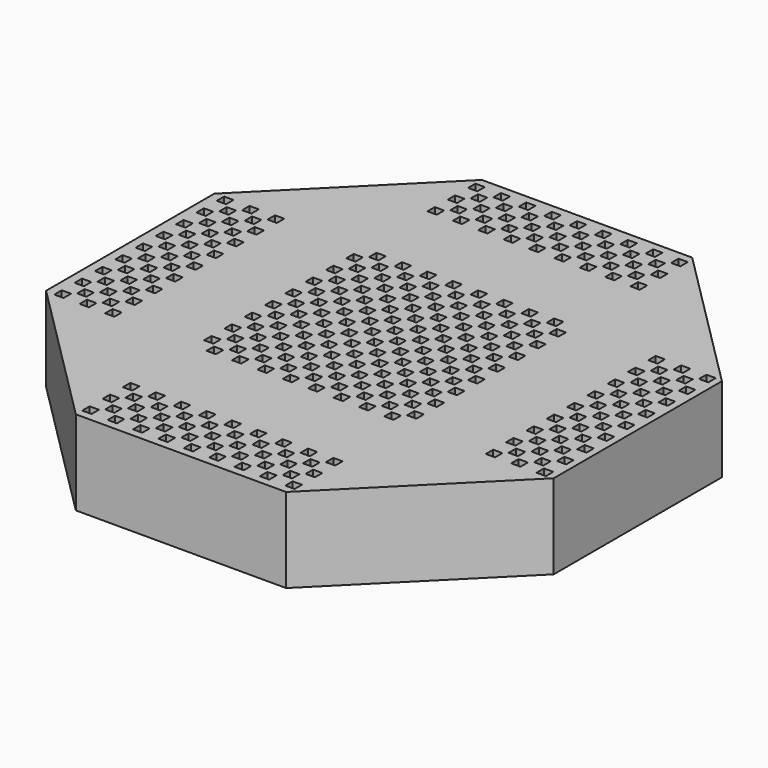
from build123d import *

# Parameters (mm, degrees)
F0_W     = 2.77368
F0_H     = 2.77368
F1_DEPTH = 25.4


with BuildPart() as f1:
    # F0 (on Top) → F1 (new body)
    with BuildSketch(Plane.XY):
        Polygon((31.563073, 76.2), (-31.563073, 76.2), (-76.2, 31.563073), (-76.2, -31.563073), (-31.563073, -76.2), (31.563073, -76.2), (76.2, -31.563073), (76.2, 31.563073), align=None)
        with Locations((-30.176233, -72.389999)):
            Rectangle(F0_W, F0_H, mode=Mode.SUBTRACT)
        with Locations((-22.556233, -72.389999)):
            Rectangle(F0_W, F0_H, mode=Mode.SUBTRACT)
        with Locations((-26.366233, -68.579999)):
            Rectangle(F0_W, F0_H, mode=Mode.SUBTRACT)
        with Locations((-30.176233, -64.769999)):
            Rectangle(F0_W, F0_H, mode=Mode.SUBTRACT)
        with Locations((-22.556233, -64.769999)):
            Rectangle(F0_W, F0_H, mode=Mode.SUBTRACT)
        with Locations((-26.366233, -60.959999)):
            Rectangle(F0_W, F0_H, mode=Mode.SUBTRACT)
        with Locations((-14.936233, -72.389999)):
            Rectangle(F0_W, F0_H, mode=Mode.SUBTRACT)
        with Locations((-18.746233, -68.579999)):
            Rectangle(F0_W, F0_H, mode=Mode.SUBTRACT)
        with Locations((-11.126233, -68.579999)):
            Rectangle(F0_W, F0_H, mode=Mode.SUBTRACT)
        with Locations((-7.316233, -72.389999)):
            Rectangle(F0_W, F0_H, mode=Mode.SUBTRACT)
        with Locations((-3.506233, -68.579999)):
            Rectangle(F0_W, F0_H, mode=Mode.SUBTRACT)
        with Locations((-14.936233, -64.769999)):
            Rectangle(F0_W, F0_H, mode=Mode.SUBTRACT)
        with Locations((-18.746233, -60.959999)):
            Rectangle(F0_W, F0_H, mode=Mode.SUBTRACT)
        with Locations((-11.126233, -60.959999)):
            Rectangle(F0_W, F0_H, mode=Mode.SUBTRACT)
        with Locations((-7.316233, -64.769999)):
            Rectangle(F0_W, F0_H, mode=Mode.SUBTRACT)
        with Locations((-3.506233, -60.959999)):
            Rectangle(F0_W, F0_H, mode=Mode.SUBTRACT)
        with Locations((-30.176233, -57.149999)):
            Rectangle(F0_W, F0_H, mode=Mode.SUBTRACT)
        with Locations((-22.556233, -57.149999)):
            Rectangle(F0_W, F0_H, mode=Mode.SUBTRACT)
        with Locations((-14.936233, -57.149999)):
            Rectangle(F0_W, F0_H, mode=Mode.SUBTRACT)
        with Locations((-7.316233, -57.149999)):
            Rectangle(F0_W, F0_H, mode=Mode.SUBTRACT)
        with Locations((-72.086233, -30.479999)):
            Rectangle(F0_W, F0_H, mode=Mode.SUBTRACT)
        with Locations((-64.466233, -30.479999)):
            Rectangle(F0_W, F0_H, mode=Mode.SUBTRACT)
        with Locations((-68.276233, -26.669999)):
            Rectangle(F0_W, F0_H, mode=Mode.SUBTRACT)
        with Locations((-72.086233, -22.859999)):
            Rectangle(F0_W, F0_H, mode=Mode.SUBTRACT)
        with Locations((-60.656233, -26.669999)):
            Rectangle(F0_W, F0_H, mode=Mode.SUBTRACT)
        with Locations((-64.466233, -22.859999)):
            Rectangle(F0_W, F0_H, mode=Mode.SUBTRACT)
        with Locations((-56.846233, -30.479999)):
            Rectangle(F0_W, F0_H, mode=Mode.SUBTRACT)
        with Locations((-56.846233, -22.859999)):
            Rectangle(F0_W, F0_H, mode=Mode.SUBTRACT)
        with Locations((-72.086233, -15.239999)):
            Rectangle(F0_W, F0_H, mode=Mode.SUBTRACT)
        with Locations((-68.276233, -19.049999)):
            Rectangle(F0_W, F0_H, mode=Mode.SUBTRACT)
        with Locations((-68.276233, -11.429999)):
            Rectangle(F0_W, F0_H, mode=Mode.SUBTRACT)
        with Locations((-64.466233, -15.239999)):
            Rectangle(F0_W, F0_H, mode=Mode.SUBTRACT)
        with Locations((-60.656233, -19.049999)):
            Rectangle(F0_W, F0_H, mode=Mode.SUBTRACT)
        with Locations((-60.656233, -11.429999)):
            Rectangle(F0_W, F0_H, mode=Mode.SUBTRACT)
        with Locations((-72.086233, -7.619999)):
            Rectangle(F0_W, F0_H, mode=Mode.SUBTRACT)
        with Locations((-68.276233, -3.809999)):
            Rectangle(F0_W, F0_H, mode=Mode.SUBTRACT)
        with Locations((-64.466233, -7.619999)):
            Rectangle(F0_W, F0_H, mode=Mode.SUBTRACT)
        with Locations((-60.656233, -3.809999)):
            Rectangle(F0_W, F0_H, mode=Mode.SUBTRACT)
        with Locations((-56.846233, -15.239999)):
            Rectangle(F0_W, F0_H, mode=Mode.SUBTRACT)
        with Locations((-56.846233, -7.619999)):
            Rectangle(F0_W, F0_H, mode=Mode.SUBTRACT)
        with Locations((-26.366233, -30.479999)):
            Rectangle(F0_W, F0_H, mode=Mode.SUBTRACT)
        with Locations((-30.176233, -26.669999)):
            Rectangle(F0_W, F0_H, mode=Mode.SUBTRACT)
        with Locations((-22.556233, -26.669999)):
            Rectangle(F0_W, F0_H, mode=Mode.SUBTRACT)
        with Locations((-26.366233, -22.859999)):
            Rectangle(F0_W, F0_H, mode=Mode.SUBTRACT)
        with Locations((-18.746233, -30.479999)):
            Rectangle(F0_W, F0_H, mode=Mode.SUBTRACT)
        with Locations((-11.126233, -30.479999)):
            Rectangle(F0_W, F0_H, mode=Mode.SUBTRACT)
        with Locations((-3.506233, -30.479999)):
            Rectangle(F0_W, F0_H, mode=Mode.SUBTRACT)
        with Locations((-14.936233, -26.669999)):
            Rectangle(F0_W, F0_H, mode=Mode.SUBTRACT)
        with Locations((-18.746233, -22.859999)):
            Rectangle(F0_W, F0_H, mode=Mode.SUBTRACT)
        with Locations((-11.126233, -22.859999)):
            Rectangle(F0_W, F0_H, mode=Mode.SUBTRACT)
        with Locations((-7.316233, -26.669999)):
            Rectangle(F0_W, F0_H, mode=Mode.SUBTRACT)
        with Locations((-3.506233, -22.859999)):
            Rectangle(F0_W, F0_H, mode=Mode.SUBTRACT)
        with Locations((-30.176233, -19.049999)):
            Rectangle(F0_W, F0_H, mode=Mode.SUBTRACT)
        with Locations((-30.176233, -11.429999)):
            Rectangle(F0_W, F0_H, mode=Mode.SUBTRACT)
        with Locations((-26.366233, -15.239999)):
            Rectangle(F0_W, F0_H, mode=Mode.SUBTRACT)
        with Locations((-22.556233, -19.049999)):
            Rectangle(F0_W, F0_H, mode=Mode.SUBTRACT)
        with Locations((-22.556233, -11.429999)):
            Rectangle(F0_W, F0_H, mode=Mode.SUBTRACT)
        with Locations((-30.176233, -3.809999)):
            Rectangle(F0_W, F0_H, mode=Mode.SUBTRACT)
        with Locations((-26.366233, -7.619999)):
            Rectangle(F0_W, F0_H, mode=Mode.SUBTRACT)
        with Locations((-22.556233, -3.809999)):
            Rectangle(F0_W, F0_H, mode=Mode.SUBTRACT)
        with Locations((-14.936233, -19.049999)):
            Rectangle(F0_W, F0_H, mode=Mode.SUBTRACT)
        with Locations((-18.746233, -15.239999)):
            Rectangle(F0_W, F0_H, mode=Mode.SUBTRACT)
        with Locations((-11.126233, -15.239999)):
            Rectangle(F0_W, F0_H, mode=Mode.SUBTRACT)
        with Locations((-14.936233, -11.429999)):
            Rectangle(F0_W, F0_H, mode=Mode.SUBTRACT)
        with Locations((-7.316233, -19.049999)):
            Rectangle(F0_W, F0_H, mode=Mode.SUBTRACT)
        with Locations((-3.506233, -15.239999)):
            Rectangle(F0_W, F0_H, mode=Mode.SUBTRACT)
        with Locations((-7.316233, -11.429999)):
            Rectangle(F0_W, F0_H, mode=Mode.SUBTRACT)
        with Locations((-18.746233, -7.619999)):
            Rectangle(F0_W, F0_H, mode=Mode.SUBTRACT)
        with Locations((-11.126233, -7.619999)):
            Rectangle(F0_W, F0_H, mode=Mode.SUBTRACT)
        with Locations((-14.936233, -3.809999)):
            Rectangle(F0_W, F0_H, mode=Mode.SUBTRACT)
        with Locations((-3.506233, -7.619999)):
            Rectangle(F0_W, F0_H, mode=Mode.SUBTRACT)
        with Locations((-7.316233, -3.809999)):
            Rectangle(F0_W, F0_H, mode=Mode.SUBTRACT)
        with Locations((0.303767, -72.389999)):
            Rectangle(F0_W, F0_H, mode=Mode.SUBTRACT)
        with Locations((7.923767, -72.389999)):
            Rectangle(F0_W, F0_H, mode=Mode.SUBTRACT)
        with Locations((4.113767, -68.579999)):
            Rectangle(F0_W, F0_H, mode=Mode.SUBTRACT)
        with Locations((15.543767, -72.389999)):
            Rectangle(F0_W, F0_H, mode=Mode.SUBTRACT)
        with Locations((11.733767, -68.579999)):
            Rectangle(F0_W, F0_H, mode=Mode.SUBTRACT)
        with Locations((0.303767, -64.769999)):
            Rectangle(F0_W, F0_H, mode=Mode.SUBTRACT)
        with Locations((7.923767, -64.769999)):
            Rectangle(F0_W, F0_H, mode=Mode.SUBTRACT)
        with Locations((4.113767, -60.959999)):
            Rectangle(F0_W, F0_H, mode=Mode.SUBTRACT)
        with Locations((15.543767, -64.769999)):
            Rectangle(F0_W, F0_H, mode=Mode.SUBTRACT)
        with Locations((11.733767, -60.959999)):
            Rectangle(F0_W, F0_H, mode=Mode.SUBTRACT)
        with Locations((23.163767, -72.389999)):
            Rectangle(F0_W, F0_H, mode=Mode.SUBTRACT)
        with Locations((19.353767, -68.579999)):
            Rectangle(F0_W, F0_H, mode=Mode.SUBTRACT)
        with Locations((26.973767, -68.579999)):
            Rectangle(F0_W, F0_H, mode=Mode.SUBTRACT)
        with Locations((30.783767, -72.389999)):
            Rectangle(F0_W, F0_H, mode=Mode.SUBTRACT)
        with Locations((23.163767, -64.769999)):
            Rectangle(F0_W, F0_H, mode=Mode.SUBTRACT)
        with Locations((19.353767, -60.959999)):
            Rectangle(F0_W, F0_H, mode=Mode.SUBTRACT)
        with Locations((26.973767, -60.959999)):
            Rectangle(F0_W, F0_H, mode=Mode.SUBTRACT)
        with Locations((30.783767, -64.769999)):
            Rectangle(F0_W, F0_H, mode=Mode.SUBTRACT)
        with Locations((0.303767, -57.149999)):
            Rectangle(F0_W, F0_H, mode=Mode.SUBTRACT)
        with Locations((7.923767, -57.149999)):
            Rectangle(F0_W, F0_H, mode=Mode.SUBTRACT)
        with Locations((15.543767, -57.149999)):
            Rectangle(F0_W, F0_H, mode=Mode.SUBTRACT)
        with Locations((23.163767, -57.149999)):
            Rectangle(F0_W, F0_H, mode=Mode.SUBTRACT)
        with Locations((30.783767, -57.149999)):
            Rectangle(F0_W, F0_H, mode=Mode.SUBTRACT)
        with Locations((4.113767, -30.479999)):
            Rectangle(F0_W, F0_H, mode=Mode.SUBTRACT)
        with Locations((11.733767, -30.479999)):
            Rectangle(F0_W, F0_H, mode=Mode.SUBTRACT)
        with Locations((0.303767, -26.669999)):
            Rectangle(F0_W, F0_H, mode=Mode.SUBTRACT)
        with Locations((7.923767, -26.669999)):
            Rectangle(F0_W, F0_H, mode=Mode.SUBTRACT)
        with Locations((4.113767, -22.859999)):
            Rectangle(F0_W, F0_H, mode=Mode.SUBTRACT)
        with Locations((15.543767, -26.669999)):
            Rectangle(F0_W, F0_H, mode=Mode.SUBTRACT)
        with Locations((11.733767, -22.859999)):
            Rectangle(F0_W, F0_H, mode=Mode.SUBTRACT)
        with Locations((19.353767, -30.479999)):
            Rectangle(F0_W, F0_H, mode=Mode.SUBTRACT)
        with Locations((26.973767, -30.479999)):
            Rectangle(F0_W, F0_H, mode=Mode.SUBTRACT)
        with Locations((23.163767, -26.669999)):
            Rectangle(F0_W, F0_H, mode=Mode.SUBTRACT)
        with Locations((19.353767, -22.859999)):
            Rectangle(F0_W, F0_H, mode=Mode.SUBTRACT)
        with Locations((26.973767, -22.859999)):
            Rectangle(F0_W, F0_H, mode=Mode.SUBTRACT)
        with Locations((30.783767, -26.669999)):
            Rectangle(F0_W, F0_H, mode=Mode.SUBTRACT)
        with Locations((0.303767, -19.049999)):
            Rectangle(F0_W, F0_H, mode=Mode.SUBTRACT)
        with Locations((4.113767, -15.239999)):
            Rectangle(F0_W, F0_H, mode=Mode.SUBTRACT)
        with Locations((7.923767, -19.049999)):
            Rectangle(F0_W, F0_H, mode=Mode.SUBTRACT)
        with Locations((0.303767, -11.429999)):
            Rectangle(F0_W, F0_H, mode=Mode.SUBTRACT)
        with Locations((7.923767, -11.429999)):
            Rectangle(F0_W, F0_H, mode=Mode.SUBTRACT)
        with Locations((11.733767, -15.239999)):
            Rectangle(F0_W, F0_H, mode=Mode.SUBTRACT)
        with Locations((15.543767, -19.049999)):
            Rectangle(F0_W, F0_H, mode=Mode.SUBTRACT)
        with Locations((15.543767, -11.429999)):
            Rectangle(F0_W, F0_H, mode=Mode.SUBTRACT)
        with Locations((4.113767, -7.619999)):
            Rectangle(F0_W, F0_H, mode=Mode.SUBTRACT)
        with Locations((0.303767, -3.809999)):
            Rectangle(F0_W, F0_H, mode=Mode.SUBTRACT)
        with Locations((7.923767, -3.809999)):
            Rectangle(F0_W, F0_H, mode=Mode.SUBTRACT)
        with Locations((11.733767, -7.619999)):
            Rectangle(F0_W, F0_H, mode=Mode.SUBTRACT)
        with Locations((15.543767, -3.809999)):
            Rectangle(F0_W, F0_H, mode=Mode.SUBTRACT)
        with Locations((23.163767, -19.049999)):
            Rectangle(F0_W, F0_H, mode=Mode.SUBTRACT)
        with Locations((19.353767, -15.239999)):
            Rectangle(F0_W, F0_H, mode=Mode.SUBTRACT)
        with Locations((26.973767, -15.239999)):
            Rectangle(F0_W, F0_H, mode=Mode.SUBTRACT)
        with Locations((23.163767, -11.429999)):
            Rectangle(F0_W, F0_H, mode=Mode.SUBTRACT)
        with Locations((30.783767, -19.049999)):
            Rectangle(F0_W, F0_H, mode=Mode.SUBTRACT)
        with Locations((30.783767, -11.429999)):
            Rectangle(F0_W, F0_H, mode=Mode.SUBTRACT)
        with Locations((19.353767, -7.619999)):
            Rectangle(F0_W, F0_H, mode=Mode.SUBTRACT)
        with Locations((26.973767, -7.619999)):
            Rectangle(F0_W, F0_H, mode=Mode.SUBTRACT)
        with Locations((23.163767, -3.809999)):
            Rectangle(F0_W, F0_H, mode=Mode.SUBTRACT)
        with Locations((30.783767, -3.809999)):
            Rectangle(F0_W, F0_H, mode=Mode.SUBTRACT)
        with Locations((57.453767, -30.479999)):
            Rectangle(F0_W, F0_H, mode=Mode.SUBTRACT)
        with Locations((65.073767, -30.479999)):
            Rectangle(F0_W, F0_H, mode=Mode.SUBTRACT)
        with Locations((72.693767, -30.479999)):
            Rectangle(F0_W, F0_H, mode=Mode.SUBTRACT)
        with Locations((61.263767, -26.669999)):
            Rectangle(F0_W, F0_H, mode=Mode.SUBTRACT)
        with Locations((57.453767, -22.859999)):
            Rectangle(F0_W, F0_H, mode=Mode.SUBTRACT)
        with Locations((65.073767, -22.859999)):
            Rectangle(F0_W, F0_H, mode=Mode.SUBTRACT)
        with Locations((68.883767, -26.669999)):
            Rectangle(F0_W, F0_H, mode=Mode.SUBTRACT)
        with Locations((72.693767, -22.859999)):
            Rectangle(F0_W, F0_H, mode=Mode.SUBTRACT)
        with Locations((61.263767, -19.049999)):
            Rectangle(F0_W, F0_H, mode=Mode.SUBTRACT)
        with Locations((57.453767, -15.239999)):
            Rectangle(F0_W, F0_H, mode=Mode.SUBTRACT)
        with Locations((65.073767, -15.239999)):
            Rectangle(F0_W, F0_H, mode=Mode.SUBTRACT)
        with Locations((61.263767, -11.429999)):
            Rectangle(F0_W, F0_H, mode=Mode.SUBTRACT)
        with Locations((68.883767, -19.049999)):
            Rectangle(F0_W, F0_H, mode=Mode.SUBTRACT)
        with Locations((72.693767, -15.239999)):
            Rectangle(F0_W, F0_H, mode=Mode.SUBTRACT)
        with Locations((68.883767, -11.429999)):
            Rectangle(F0_W, F0_H, mode=Mode.SUBTRACT)
        with Locations((57.453767, -7.619999)):
            Rectangle(F0_W, F0_H, mode=Mode.SUBTRACT)
        with Locations((65.073767, -7.619999)):
            Rectangle(F0_W, F0_H, mode=Mode.SUBTRACT)
        with Locations((61.263767, -3.809999)):
            Rectangle(F0_W, F0_H, mode=Mode.SUBTRACT)
        with Locations((72.693767, -7.619999)):
            Rectangle(F0_W, F0_H, mode=Mode.SUBTRACT)
        with Locations((68.883767, -3.809999)):
            Rectangle(F0_W, F0_H, mode=Mode.SUBTRACT)
        with Locations((-72.086233, 1e-06)):
            Rectangle(F0_W, F0_H, mode=Mode.SUBTRACT)
        with Locations((-68.276233, 3.810001)):
            Rectangle(F0_W, F0_H, mode=Mode.SUBTRACT)
        with Locations((-72.086233, 7.620001)):
            Rectangle(F0_W, F0_H, mode=Mode.SUBTRACT)
        with Locations((-64.466233, 1e-06)):
            Rectangle(F0_W, F0_H, mode=Mode.SUBTRACT)
        with Locations((-60.656233, 3.810001)):
            Rectangle(F0_W, F0_H, mode=Mode.SUBTRACT)
        with Locations((-64.466233, 7.620001)):
            Rectangle(F0_W, F0_H, mode=Mode.SUBTRACT)
        with Locations((-68.276233, 11.430001)):
            Rectangle(F0_W, F0_H, mode=Mode.SUBTRACT)
        with Locations((-72.086233, 15.240001)):
            Rectangle(F0_W, F0_H, mode=Mode.SUBTRACT)
        with Locations((-60.656233, 11.430001)):
            Rectangle(F0_W, F0_H, mode=Mode.SUBTRACT)
        with Locations((-64.466233, 15.240001)):
            Rectangle(F0_W, F0_H, mode=Mode.SUBTRACT)
        with Locations((-56.846233, 1e-06)):
            Rectangle(F0_W, F0_H, mode=Mode.SUBTRACT)
        with Locations((-56.846233, 7.620001)):
            Rectangle(F0_W, F0_H, mode=Mode.SUBTRACT)
        with Locations((-56.846233, 15.240001)):
            Rectangle(F0_W, F0_H, mode=Mode.SUBTRACT)
        with Locations((-72.086233, 22.860001)):
            Rectangle(F0_W, F0_H, mode=Mode.SUBTRACT)
        with Locations((-68.276233, 19.050001)):
            Rectangle(F0_W, F0_H, mode=Mode.SUBTRACT)
        with Locations((-68.276233, 26.670001)):
            Rectangle(F0_W, F0_H, mode=Mode.SUBTRACT)
        with Locations((-64.466233, 22.860001)):
            Rectangle(F0_W, F0_H, mode=Mode.SUBTRACT)
        with Locations((-60.656233, 19.050001)):
            Rectangle(F0_W, F0_H, mode=Mode.SUBTRACT)
        with Locations((-60.656233, 26.670001)):
            Rectangle(F0_W, F0_H, mode=Mode.SUBTRACT)
        with Locations((-72.086233, 30.480001)):
            Rectangle(F0_W, F0_H, mode=Mode.SUBTRACT)
        with Locations((-64.466233, 30.480001)):
            Rectangle(F0_W, F0_H, mode=Mode.SUBTRACT)
        with Locations((-56.846233, 22.860001)):
            Rectangle(F0_W, F0_H, mode=Mode.SUBTRACT)
        with Locations((-56.846233, 30.480001)):
            Rectangle(F0_W, F0_H, mode=Mode.SUBTRACT)
        with Locations((-30.176233, 3.810001)):
            Rectangle(F0_W, F0_H, mode=Mode.SUBTRACT)
        with Locations((-26.366233, 1e-06)):
            Rectangle(F0_W, F0_H, mode=Mode.SUBTRACT)
        with Locations((-22.556233, 3.810001)):
            Rectangle(F0_W, F0_H, mode=Mode.SUBTRACT)
        with Locations((-26.366233, 7.620001)):
            Rectangle(F0_W, F0_H, mode=Mode.SUBTRACT)
        with Locations((-30.176233, 11.430001)):
            Rectangle(F0_W, F0_H, mode=Mode.SUBTRACT)
        with Locations((-22.556233, 11.430001)):
            Rectangle(F0_W, F0_H, mode=Mode.SUBTRACT)
        with Locations((-26.366233, 15.240001)):
            Rectangle(F0_W, F0_H, mode=Mode.SUBTRACT)
        with Locations((-18.746233, 1e-06)):
            Rectangle(F0_W, F0_H, mode=Mode.SUBTRACT)
        with Locations((-14.936233, 3.810001)):
            Rectangle(F0_W, F0_H, mode=Mode.SUBTRACT)
        with Locations((-11.126233, 1e-06)):
            Rectangle(F0_W, F0_H, mode=Mode.SUBTRACT)
        with Locations((-18.746233, 7.620001)):
            Rectangle(F0_W, F0_H, mode=Mode.SUBTRACT)
        with Locations((-11.126233, 7.620001)):
            Rectangle(F0_W, F0_H, mode=Mode.SUBTRACT)
        with Locations((-7.316233, 3.810001)):
            Rectangle(F0_W, F0_H, mode=Mode.SUBTRACT)
        with Locations((-3.506233, 1e-06)):
            Rectangle(F0_W, F0_H, mode=Mode.SUBTRACT)
        with Locations((-3.506233, 7.620001)):
            Rectangle(F0_W, F0_H, mode=Mode.SUBTRACT)
        with Locations((-14.936233, 11.430001)):
            Rectangle(F0_W, F0_H, mode=Mode.SUBTRACT)
        with Locations((-18.746233, 15.240001)):
            Rectangle(F0_W, F0_H, mode=Mode.SUBTRACT)
        with Locations((-11.126233, 15.240001)):
            Rectangle(F0_W, F0_H, mode=Mode.SUBTRACT)
        with Locations((-7.316233, 11.430001)):
            Rectangle(F0_W, F0_H, mode=Mode.SUBTRACT)
        with Locations((-3.506233, 15.240001)):
            Rectangle(F0_W, F0_H, mode=Mode.SUBTRACT)
        with Locations((-30.176233, 19.050001)):
            Rectangle(F0_W, F0_H, mode=Mode.SUBTRACT)
        with Locations((-30.176233, 26.670001)):
            Rectangle(F0_W, F0_H, mode=Mode.SUBTRACT)
        with Locations((-26.366233, 22.860001)):
            Rectangle(F0_W, F0_H, mode=Mode.SUBTRACT)
        with Locations((-22.556233, 19.050001)):
            Rectangle(F0_W, F0_H, mode=Mode.SUBTRACT)
        with Locations((-22.556233, 26.670001)):
            Rectangle(F0_W, F0_H, mode=Mode.SUBTRACT)
        with Locations((-26.366233, 30.480001)):
            Rectangle(F0_W, F0_H, mode=Mode.SUBTRACT)
        with Locations((-14.936233, 19.050001)):
            Rectangle(F0_W, F0_H, mode=Mode.SUBTRACT)
        with Locations((-18.746233, 22.860001)):
            Rectangle(F0_W, F0_H, mode=Mode.SUBTRACT)
        with Locations((-11.126233, 22.860001)):
            Rectangle(F0_W, F0_H, mode=Mode.SUBTRACT)
        with Locations((-14.936233, 26.670001)):
            Rectangle(F0_W, F0_H, mode=Mode.SUBTRACT)
        with Locations((-7.316233, 19.050001)):
            Rectangle(F0_W, F0_H, mode=Mode.SUBTRACT)
        with Locations((-3.506233, 22.860001)):
            Rectangle(F0_W, F0_H, mode=Mode.SUBTRACT)
        with Locations((-7.316233, 26.670001)):
            Rectangle(F0_W, F0_H, mode=Mode.SUBTRACT)
        with Locations((-18.746233, 30.480001)):
            Rectangle(F0_W, F0_H, mode=Mode.SUBTRACT)
        with Locations((-11.126233, 30.480001)):
            Rectangle(F0_W, F0_H, mode=Mode.SUBTRACT)
        with Locations((-3.506233, 30.480001)):
            Rectangle(F0_W, F0_H, mode=Mode.SUBTRACT)
        with Locations((-30.176233, 57.150001)):
            Rectangle(F0_W, F0_H, mode=Mode.SUBTRACT)
        with Locations((-30.176233, 64.770001)):
            Rectangle(F0_W, F0_H, mode=Mode.SUBTRACT)
        with Locations((-26.366233, 60.960001)):
            Rectangle(F0_W, F0_H, mode=Mode.SUBTRACT)
        with Locations((-22.556233, 57.150001)):
            Rectangle(F0_W, F0_H, mode=Mode.SUBTRACT)
        with Locations((-22.556233, 64.770001)):
            Rectangle(F0_W, F0_H, mode=Mode.SUBTRACT)
        with Locations((-30.176233, 72.390001)):
            Rectangle(F0_W, F0_H, mode=Mode.SUBTRACT)
        with Locations((-26.366233, 68.580001)):
            Rectangle(F0_W, F0_H, mode=Mode.SUBTRACT)
        with Locations((-22.556233, 72.390001)):
            Rectangle(F0_W, F0_H, mode=Mode.SUBTRACT)
        with Locations((-14.936233, 57.150001)):
            Rectangle(F0_W, F0_H, mode=Mode.SUBTRACT)
        with Locations((-18.746233, 60.960001)):
            Rectangle(F0_W, F0_H, mode=Mode.SUBTRACT)
        with Locations((-11.126233, 60.960001)):
            Rectangle(F0_W, F0_H, mode=Mode.SUBTRACT)
        with Locations((-14.936233, 64.770001)):
            Rectangle(F0_W, F0_H, mode=Mode.SUBTRACT)
        with Locations((-7.316233, 57.150001)):
            Rectangle(F0_W, F0_H, mode=Mode.SUBTRACT)
        with Locations((-3.506233, 60.960001)):
            Rectangle(F0_W, F0_H, mode=Mode.SUBTRACT)
        with Locations((-7.316233, 64.770001)):
            Rectangle(F0_W, F0_H, mode=Mode.SUBTRACT)
        with Locations((-18.746233, 68.580001)):
            Rectangle(F0_W, F0_H, mode=Mode.SUBTRACT)
        with Locations((-11.126233, 68.580001)):
            Rectangle(F0_W, F0_H, mode=Mode.SUBTRACT)
        with Locations((-14.936233, 72.390001)):
            Rectangle(F0_W, F0_H, mode=Mode.SUBTRACT)
        with Locations((-3.506233, 68.580001)):
            Rectangle(F0_W, F0_H, mode=Mode.SUBTRACT)
        with Locations((-7.316233, 72.390001)):
            Rectangle(F0_W, F0_H, mode=Mode.SUBTRACT)
        with Locations((4.113767, 1e-06)):
            Rectangle(F0_W, F0_H, mode=Mode.SUBTRACT)
        with Locations((0.303767, 3.810001)):
            Rectangle(F0_W, F0_H, mode=Mode.SUBTRACT)
        with Locations((7.923767, 3.810001)):
            Rectangle(F0_W, F0_H, mode=Mode.SUBTRACT)
        with Locations((4.113767, 7.620001)):
            Rectangle(F0_W, F0_H, mode=Mode.SUBTRACT)
        with Locations((11.733767, 1e-06)):
            Rectangle(F0_W, F0_H, mode=Mode.SUBTRACT)
        with Locations((15.543767, 3.810001)):
            Rectangle(F0_W, F0_H, mode=Mode.SUBTRACT)
        with Locations((11.733767, 7.620001)):
            Rectangle(F0_W, F0_H, mode=Mode.SUBTRACT)
        with Locations((0.303767, 11.430001)):
            Rectangle(F0_W, F0_H, mode=Mode.SUBTRACT)
        with Locations((7.923767, 11.430001)):
            Rectangle(F0_W, F0_H, mode=Mode.SUBTRACT)
        with Locations((4.113767, 15.240001)):
            Rectangle(F0_W, F0_H, mode=Mode.SUBTRACT)
        with Locations((15.543767, 11.430001)):
            Rectangle(F0_W, F0_H, mode=Mode.SUBTRACT)
        with Locations((11.733767, 15.240001)):
            Rectangle(F0_W, F0_H, mode=Mode.SUBTRACT)
        with Locations((19.353767, 1e-06)):
            Rectangle(F0_W, F0_H, mode=Mode.SUBTRACT)
        with Locations((23.163767, 3.810001)):
            Rectangle(F0_W, F0_H, mode=Mode.SUBTRACT)
        with Locations((26.973767, 1e-06)):
            Rectangle(F0_W, F0_H, mode=Mode.SUBTRACT)
        with Locations((19.353767, 7.620001)):
            Rectangle(F0_W, F0_H, mode=Mode.SUBTRACT)
        with Locations((26.973767, 7.620001)):
            Rectangle(F0_W, F0_H, mode=Mode.SUBTRACT)
        with Locations((30.783767, 3.810001)):
            Rectangle(F0_W, F0_H, mode=Mode.SUBTRACT)
        with Locations((23.163767, 11.430001)):
            Rectangle(F0_W, F0_H, mode=Mode.SUBTRACT)
        with Locations((19.353767, 15.240001)):
            Rectangle(F0_W, F0_H, mode=Mode.SUBTRACT)
        with Locations((26.973767, 15.240001)):
            Rectangle(F0_W, F0_H, mode=Mode.SUBTRACT)
        with Locations((30.783767, 11.430001)):
            Rectangle(F0_W, F0_H, mode=Mode.SUBTRACT)
        with Locations((0.303767, 19.050001)):
            Rectangle(F0_W, F0_H, mode=Mode.SUBTRACT)
        with Locations((4.113767, 22.860001)):
            Rectangle(F0_W, F0_H, mode=Mode.SUBTRACT)
        with Locations((7.923767, 19.050001)):
            Rectangle(F0_W, F0_H, mode=Mode.SUBTRACT)
        with Locations((0.303767, 26.670001)):
            Rectangle(F0_W, F0_H, mode=Mode.SUBTRACT)
        with Locations((7.923767, 26.670001)):
            Rectangle(F0_W, F0_H, mode=Mode.SUBTRACT)
        with Locations((11.733767, 22.860001)):
            Rectangle(F0_W, F0_H, mode=Mode.SUBTRACT)
        with Locations((15.543767, 19.050001)):
            Rectangle(F0_W, F0_H, mode=Mode.SUBTRACT)
        with Locations((15.543767, 26.670001)):
            Rectangle(F0_W, F0_H, mode=Mode.SUBTRACT)
        with Locations((4.113767, 30.480001)):
            Rectangle(F0_W, F0_H, mode=Mode.SUBTRACT)
        with Locations((11.733767, 30.480001)):
            Rectangle(F0_W, F0_H, mode=Mode.SUBTRACT)
        with Locations((23.163767, 19.050001)):
            Rectangle(F0_W, F0_H, mode=Mode.SUBTRACT)
        with Locations((19.353767, 22.860001)):
            Rectangle(F0_W, F0_H, mode=Mode.SUBTRACT)
        with Locations((26.973767, 22.860001)):
            Rectangle(F0_W, F0_H, mode=Mode.SUBTRACT)
        with Locations((23.163767, 26.670001)):
            Rectangle(F0_W, F0_H, mode=Mode.SUBTRACT)
        with Locations((30.783767, 19.050001)):
            Rectangle(F0_W, F0_H, mode=Mode.SUBTRACT)
        with Locations((30.783767, 26.670001)):
            Rectangle(F0_W, F0_H, mode=Mode.SUBTRACT)
        with Locations((19.353767, 30.480001)):
            Rectangle(F0_W, F0_H, mode=Mode.SUBTRACT)
        with Locations((26.973767, 30.480001)):
            Rectangle(F0_W, F0_H, mode=Mode.SUBTRACT)
        with Locations((57.453767, 1e-06)):
            Rectangle(F0_W, F0_H, mode=Mode.SUBTRACT)
        with Locations((61.263767, 3.810001)):
            Rectangle(F0_W, F0_H, mode=Mode.SUBTRACT)
        with Locations((65.073767, 1e-06)):
            Rectangle(F0_W, F0_H, mode=Mode.SUBTRACT)
        with Locations((57.453767, 7.620001)):
            Rectangle(F0_W, F0_H, mode=Mode.SUBTRACT)
        with Locations((65.073767, 7.620001)):
            Rectangle(F0_W, F0_H, mode=Mode.SUBTRACT)
        with Locations((68.883767, 3.810001)):
            Rectangle(F0_W, F0_H, mode=Mode.SUBTRACT)
        with Locations((72.693767, 1e-06)):
            Rectangle(F0_W, F0_H, mode=Mode.SUBTRACT)
        with Locations((72.693767, 7.620001)):
            Rectangle(F0_W, F0_H, mode=Mode.SUBTRACT)
        with Locations((61.263767, 11.430001)):
            Rectangle(F0_W, F0_H, mode=Mode.SUBTRACT)
        with Locations((57.453767, 15.240001)):
            Rectangle(F0_W, F0_H, mode=Mode.SUBTRACT)
        with Locations((65.073767, 15.240001)):
            Rectangle(F0_W, F0_H, mode=Mode.SUBTRACT)
        with Locations((68.883767, 11.430001)):
            Rectangle(F0_W, F0_H, mode=Mode.SUBTRACT)
        with Locations((72.693767, 15.240001)):
            Rectangle(F0_W, F0_H, mode=Mode.SUBTRACT)
        with Locations((61.263767, 19.050001)):
            Rectangle(F0_W, F0_H, mode=Mode.SUBTRACT)
        with Locations((57.453767, 22.860001)):
            Rectangle(F0_W, F0_H, mode=Mode.SUBTRACT)
        with Locations((65.073767, 22.860001)):
            Rectangle(F0_W, F0_H, mode=Mode.SUBTRACT)
        with Locations((61.263767, 26.670001)):
            Rectangle(F0_W, F0_H, mode=Mode.SUBTRACT)
        with Locations((68.883767, 19.050001)):
            Rectangle(F0_W, F0_H, mode=Mode.SUBTRACT)
        with Locations((72.693767, 22.860001)):
            Rectangle(F0_W, F0_H, mode=Mode.SUBTRACT)
        with Locations((68.883767, 26.670001)):
            Rectangle(F0_W, F0_H, mode=Mode.SUBTRACT)
        with Locations((57.453767, 30.480001)):
            Rectangle(F0_W, F0_H, mode=Mode.SUBTRACT)
        with Locations((65.073767, 30.480001)):
            Rectangle(F0_W, F0_H, mode=Mode.SUBTRACT)
        with Locations((72.693767, 30.480001)):
            Rectangle(F0_W, F0_H, mode=Mode.SUBTRACT)
        with Locations((0.303767, 57.150001)):
            Rectangle(F0_W, F0_H, mode=Mode.SUBTRACT)
        with Locations((4.113767, 60.960001)):
            Rectangle(F0_W, F0_H, mode=Mode.SUBTRACT)
        with Locations((7.923767, 57.150001)):
            Rectangle(F0_W, F0_H, mode=Mode.SUBTRACT)
        with Locations((0.303767, 64.770001)):
            Rectangle(F0_W, F0_H, mode=Mode.SUBTRACT)
        with Locations((7.923767, 64.770001)):
            Rectangle(F0_W, F0_H, mode=Mode.SUBTRACT)
        with Locations((11.733767, 60.960001)):
            Rectangle(F0_W, F0_H, mode=Mode.SUBTRACT)
        with Locations((15.543767, 57.150001)):
            Rectangle(F0_W, F0_H, mode=Mode.SUBTRACT)
        with Locations((15.543767, 64.770001)):
            Rectangle(F0_W, F0_H, mode=Mode.SUBTRACT)
        with Locations((4.113767, 68.580001)):
            Rectangle(F0_W, F0_H, mode=Mode.SUBTRACT)
        with Locations((0.303767, 72.390001)):
            Rectangle(F0_W, F0_H, mode=Mode.SUBTRACT)
        with Locations((7.923767, 72.390001)):
            Rectangle(F0_W, F0_H, mode=Mode.SUBTRACT)
        with Locations((11.733767, 68.580001)):
            Rectangle(F0_W, F0_H, mode=Mode.SUBTRACT)
        with Locations((15.543767, 72.390001)):
            Rectangle(F0_W, F0_H, mode=Mode.SUBTRACT)
        with Locations((23.163767, 57.150001)):
            Rectangle(F0_W, F0_H, mode=Mode.SUBTRACT)
        with Locations((19.353767, 60.960001)):
            Rectangle(F0_W, F0_H, mode=Mode.SUBTRACT)
        with Locations((26.973767, 60.960001)):
            Rectangle(F0_W, F0_H, mode=Mode.SUBTRACT)
        with Locations((23.163767, 64.770001)):
            Rectangle(F0_W, F0_H, mode=Mode.SUBTRACT)
        with Locations((30.783767, 57.150001)):
            Rectangle(F0_W, F0_H, mode=Mode.SUBTRACT)
        with Locations((30.783767, 64.770001)):
            Rectangle(F0_W, F0_H, mode=Mode.SUBTRACT)
        with Locations((19.353767, 68.580001)):
            Rectangle(F0_W, F0_H, mode=Mode.SUBTRACT)
        with Locations((26.973767, 68.580001)):
            Rectangle(F0_W, F0_H, mode=Mode.SUBTRACT)
        with Locations((23.163767, 72.390001)):
            Rectangle(F0_W, F0_H, mode=Mode.SUBTRACT)
        with Locations((30.783767, 72.390001)):
            Rectangle(F0_W, F0_H, mode=Mode.SUBTRACT)
    extrude(amount=F1_DEPTH)


solid = f1.part
